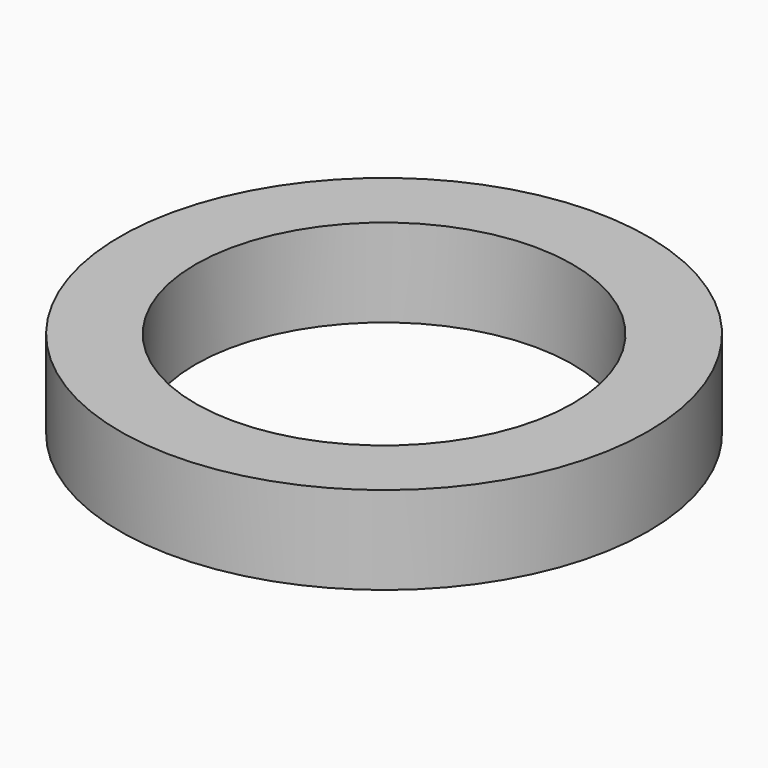
from build123d import *

# Parameters (mm, degrees)
CYLINDER013_R     = 15
CYLINDER013_DEPTH = 7
CYLINDER012_R     = 21
CYLINDER012_DEPTH = 7


with BuildPart() as bearing_inner:
    # Cylinder013 → Cylinder013 (new body)
    with BuildSketch(Plane.XY):
        Circle(CYLINDER013_R)
    extrude(amount=CYLINDER013_DEPTH)


with BuildPart() as bearing:
    # Cylinder012 → Cylinder012 (new body)
    with BuildSketch(Plane.XY):
        Circle(CYLINDER012_R)
    extrude(amount=CYLINDER012_DEPTH)

    # Cut001: cut bearing inner
    add(bearing_inner.part, mode=Mode.SUBTRACT)


with BuildPart() as bearing_1:
    # Cut001 placement: moved
    add(bearing.part.moved(Location((0, 0, 16.5))))


solid = bearing_1.part
